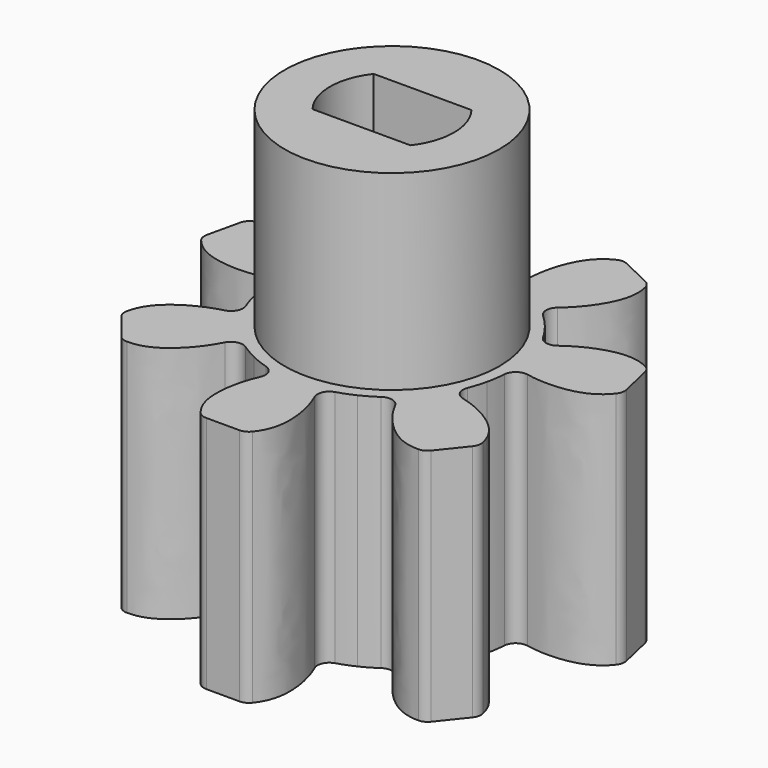
from build123d import *

# Parameters (mm, degrees)
F1_DEPTH = 10
F2_COUNT = 7
F2_ANGLE = 308.5714285714
F3_R     = 4.5
F4_DEPTH = 8


with BuildPart() as f1:
    # F0 (on Top) → F1 (new body)
    with BuildSketch(Plane.XY):
        with BuildLine():
            Line((2.1694186956, -4.5048443395), (0, 0))
            Line((0, 0), (-2.1694186956, -4.5048443395))
            ThreePointArc((-2.1694186956, -4.5048443395), (-1.8131769027, -4.6596555151), (-1.4459926079, -4.7863457228))
            ThreePointArc((-1.4459926079, -4.7863457228), (-1.1360019143, -5.0567785338), (-1.1337288621, -5.4681457281))
            add(Edge.make_bspline(
                [(-1.0826978963, -8.6677274808), (-1.4220303963, -8.2489427131), (-1.6630910077, -7.2785752045), (-1.3914458364, -6.0476801005), (-1.1337288621, -5.4681457281)],
                knots=[0.0602672768, 0.0602672768, 0.0602672768, 0.0602672768, 0.4600969779, 0.8689019138, 0.8689019138, 0.8689019138, 0.8689019138], degree=3))
            ThreePointArc((-1.0826978963, -8.6677274808), (-0.9094070817, -8.8042759726), (-0.6942189728, -8.8529511696))
            Line((-0.6942189728, -8.8529511696), (0.6942189728, -8.8529511696))
            ThreePointArc((0.6942189728, -8.8529511696), (0.9094070817, -8.8042759726), (1.0826978963, -8.6677274808))
            add(Edge.make_bspline(
                [(1.0826978963, -8.6677274808), (1.4220303963, -8.2489427131), (1.6630910077, -7.2785752045), (1.3914458364, -6.0476801005), (1.1337288621, -5.4681457281)],
                knots=[0.0602672768, 0.0602672768, 0.0602672768, 0.0602672768, 0.4600969779, 0.8689019138, 0.8689019138, 0.8689019138, 0.8689019138], degree=3))
            ThreePointArc((1.1337288621, -5.4681457281), (1.1360019143, -5.0567785338), (1.4459926079, -4.7863457228))
            ThreePointArc((1.4459926079, -4.7863457228), (1.8131769027, -4.6596555151), (2.1694186956, -4.5048443395))
        make_face()
    extrude(amount=F1_DEPTH)

    # F2: F1 ×7 about axis
    f2_axis = Axis((0, 0, 5), (0, 0, -1))


with BuildPart() as f1_1:
    add(f1.part)
    for i in range(1, F2_COUNT):
        add(f1.part.rotate(f2_axis, i * F2_ANGLE / (F2_COUNT - 1)))

    # F3 (on face) → F4 (join)
    with BuildSketch(Plane.XY.offset(10)):
        Circle(F3_R)
        with BuildLine():
            ThreePointArc((2.0493901532, 1.6), (2.458496939, 0.8460453894), (2.6, 0))
            ThreePointArc((2.6, 0), (2.458496939, -0.8460453894), (2.0493901532, -1.6))
            ThreePointArc((2.0493901532, -1.6), (0, -2.6), (-2.0493901532, -1.6))
            ThreePointArc((-2.0493901532, -1.6), (-2.6, 0), (-2.0493901532, 1.6))
            ThreePointArc((-2.0493901532, 1.6), (0, 2.6), (2.0493901532, 1.6))
        make_face(mode=Mode.SUBTRACT)
        with BuildLine():
            Line((-2.0493901532, 1.6), (2.0493901532, 1.6))
            ThreePointArc((2.0493901532, 1.6), (0, 2.6), (-2.0493901532, 1.6))
        make_face()
        with BuildLine():
            ThreePointArc((-2.0493901532, -1.6), (0, -2.6), (2.0493901532, -1.6))
            Line((2.0493901532, -1.6), (-2.0493901532, -1.6))
        make_face()
    extrude(amount=F4_DEPTH)


solid = f1_1.part
